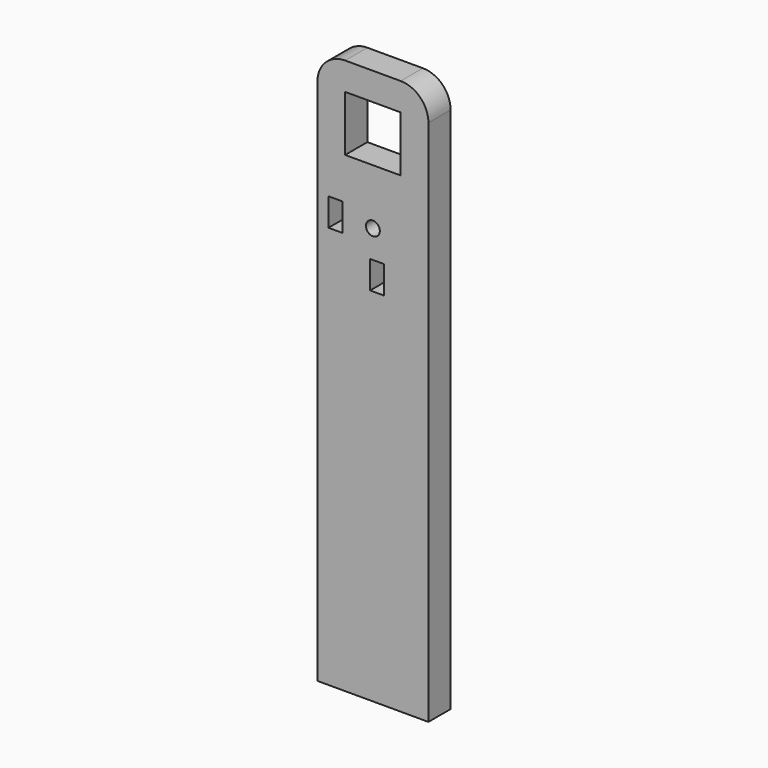
from build123d import *

# Parameters (mm, degrees)
F0_W     = 40
F0_H     = 200
F0_W_2   = 5
F0_H_2   = 10
F0_R     = 2.5
F0_W_3   = 20
F0_H_3   = 20
F1_DEPTH = 10
F2_R     = 10


with BuildPart() as f1:
    # F0 (on Front) → F1 (new body)
    with BuildSketch(Plane.XZ):
        Rectangle(F0_W, F0_H)
        with Locations((-13.5, 50)):
            Rectangle(F0_W_2, F0_H_2, mode=Mode.SUBTRACT)
        with Locations((1.5, 35)):
            Rectangle(F0_W_2, F0_H_2, mode=Mode.SUBTRACT)
        with Locations((0, 50)):
            Circle(F0_R, mode=Mode.SUBTRACT)
        with Locations((0, 80.0469)):
            Rectangle(F0_W_3, F0_H_3, mode=Mode.SUBTRACT)
    extrude(amount=F1_DEPTH)

    # F2
    f2_edges = [f1.edges().sort_by_distance(p)[0] for p in [
        (20, -5, 100),
        (-20, -5, 100),
    ]]
    fillet(f2_edges, radius=F2_R)


solid = f1.part
